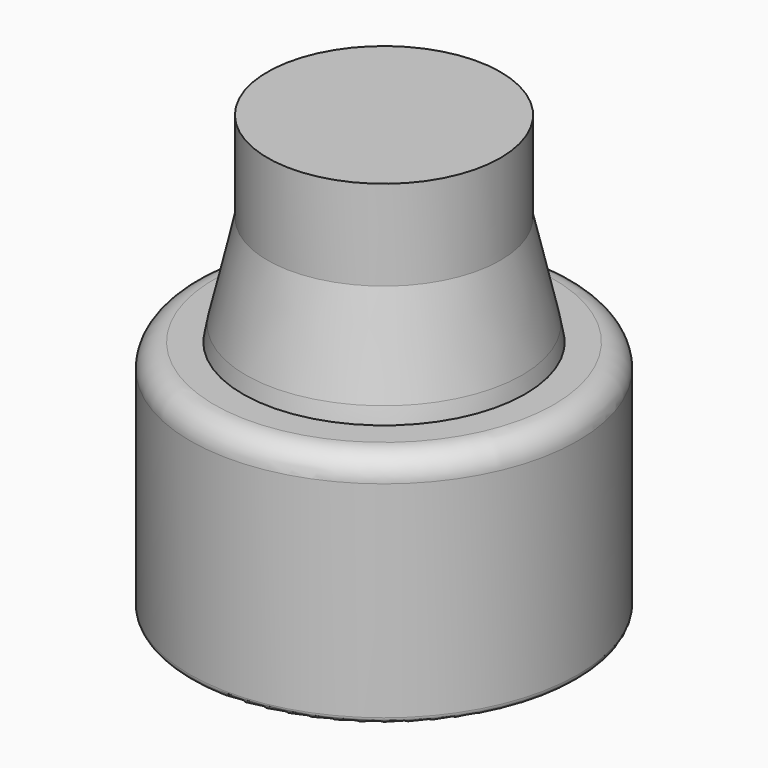
from build123d import *

# Parameters (mm, degrees)
F3_R     = 4
F4_DEPTH = 1
F4_TAPER = 70


with BuildPart() as f1:
    # F0 (on Front) → F1 (revolve)
    with BuildSketch(Plane.XZ):
        with BuildLine():
            Line((5.65, 7.85), (3.375, 7.85))
            Line((3.375, 7.85), (3.375, 4.75))
            Line((3.375, 4.75), (1.25, 3.523130678))
            Line((1.25, 3.523130678), (0, 3.523130678))
            Line((0, 3.523130678), (0, 0))
            Line((0, 0), (6.25, 0))
            ThreePointArc((6.25, 0), (6.3914213562, 0.0585786438), (6.45, 0.2))
            Line((6.45, 0.2), (6.45, 7.05))
            ThreePointArc((6.45, 7.05), (6.2156854249, 7.6156854249), (5.65, 7.85))
        make_face()
    revolve(axis=Axis((0, 0, 1.761565339), (0, 0, -1)))

    # F3 (on face) → F4 (cut)
    with BuildSketch(Plane.XY.offset(7.85)):
        Circle(F3_R)
    extrude(amount=-F4_DEPTH, taper=F4_TAPER, mode=Mode.SUBTRACT)


with BuildPart() as f6:
    # F5 (on Front) → F6 (revolve)
    with BuildSketch(Plane.XZ):
        with BuildLine():
            Line((3.875, 14.5), (0, 14.5))
            Line((0, 14.5), (0, 0))
            Line((0, 0), (3.495, 0))
            Line((3.495, 0), (4.5970197549, 4.7733719814))
            ThreePointArc((4.5970197549, 4.7733719814), (4.8020592366, 6.5729804161), (4.5970197549, 8.3725888509))
            Line((4.5970197549, 8.3725888509), (3.875, 11.5))
            Line((3.875, 11.5), (3.875, 14.5))
        make_face()
    revolve(axis=Axis((0, 0, 7.25), (0, 0, -1)))


with BuildPart() as f8:
    # F7 (on Front) → F8 (revolve)
    with BuildSketch(Plane.XZ):
        with BuildLine():
            Line((0, 7.3151008031), (0, 0))
            Line((0, 0), (5.4641815853, 0))
            ThreePointArc((5.4641815853, 0), (5.8051807653, 0.1343231492), (5.9629636104, 0.4651217631))
            Line((5.9629636104, 0.4651217631), (6.3226162816, 5.6083945828))
            ThreePointArc((6.3226162816, 5.6083945828), (6.3215840066, 6.4599817167), (6.2, 7.3028453127))
            ThreePointArc((6.2, 7.3028453127), (6.0352373223, 7.577508433), (5.7376039765, 7.6958340895))
            Line((5.7376039765, 7.6958340895), (3.75, 7.8))
            Line((3.75, 7.8), (1, 7.3151008031))
            Line((1, 7.3151008031), (0, 7.3151008031))
        make_face()
    revolve(axis=Axis((0, 0, 3.6575504015), (0, 0, 1)))


solid = Compound([f1.part, f6.part, f8.part])
